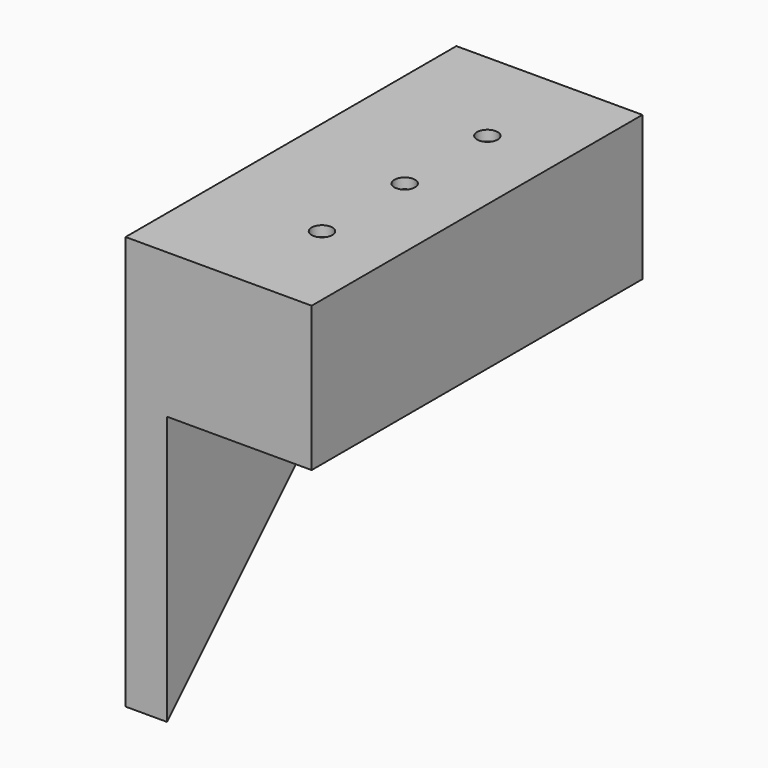
from build123d import *

# Parameters (mm, degrees)
F0_W           = 88.9
F0_H           = 88.9
F1_DEPTH       = 127
F3_D           = 6.35
F3_CBORE_D     = 12.7
F3_CBORE_DEPTH = 6.35
F6_DEPTH       = 25.4


with BuildPart() as f1:
    # F0 (on Front) → F1 (new body, symmetric)
    with BuildSketch(Plane.XZ):
        Rectangle(F0_W, F0_H)
    extrude(amount=F1_DEPTH, both=True)

    # F3 (through all)
    with Locations(Plane.XY.offset(44.45)):
        with Locations((0, 63.5), (0, 0), (0, -63.5)):
            CounterBoreHole(F3_D / 2, F3_CBORE_D / 2, F3_CBORE_DEPTH)

    # F5 (on face) → F6 (join)
    with BuildSketch(Plane(origin=(-44.45, 0, 0), x_dir=(0, -1, 0), z_dir=(-1, 0, 0))):
        Polygon((127, 44.45), (-127, 44.45), (127, -209.55), align=None)
    extrude(amount=F6_DEPTH)


solid = f1.part
